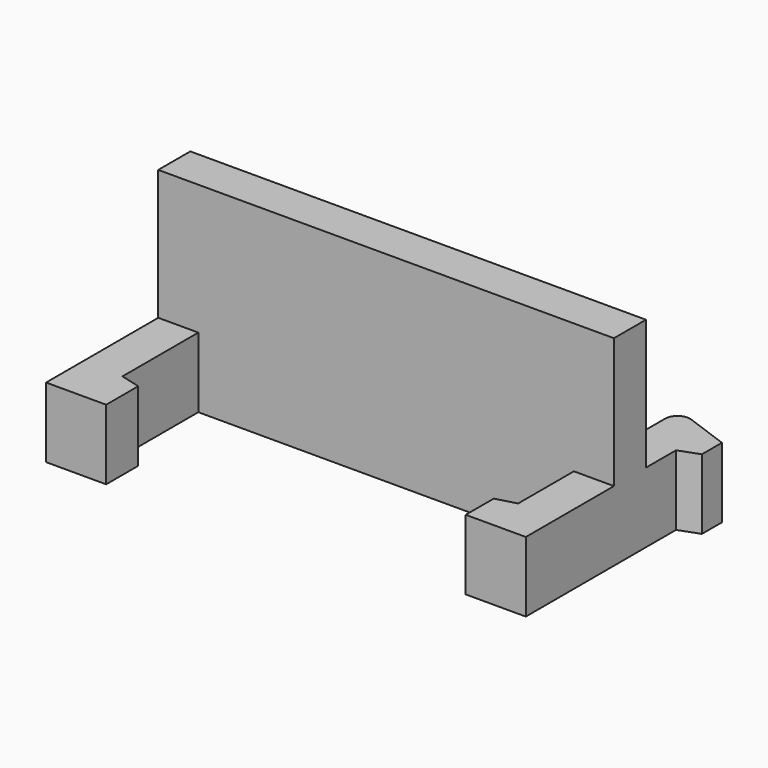
from build123d import *

# Parameters (mm, degrees)
F0_W     = 18.2
F0_H     = 8
F1_DEPTH = 1.6
F3_DEPTH = 2.8


with BuildPart() as f1:
    # F0 (on Front) → F1 (new body)
    with BuildSketch(Plane.XZ):
        Rectangle(F0_W, F0_H)
    extrude(amount=F1_DEPTH)

    # F2 (on face) → F3 (join)
    with BuildSketch(Plane(origin=(0, 0, -4), x_dir=(1, 0, 0), z_dir=(0, 0, -1))):
        Polygon((-9.1, 7.2), (-9.1, 1.6), (-7.5, 1.6), (-7.5, 5.385641), (-6.7, 5.6), (-6.7, 7.2), align=None)
        Polygon((7.5, 4.385641), (7.5, 1.6), (9.1, 1.6), (9.1, 6), (6.7, 6), (6.7, 4.6), align=None)
        with BuildLine():
            Line((-7.5, 0), (-9.1, 0))
            Line((-9.1, 0), (-9.1, -1.5))
            Line((-9.1, -1.5), (-9.9, -1.791176))
            Line((-9.9, -1.791176), (-9.9, -2.791176))
            Line((-9.9, -2.791176), (-8.17101, -3.420477))
            ThreePointArc((-8.17101, -3.420477), (-7.713212, -3.360207), (-7.5, -2.950631))
            Line((-7.5, -2.950631), (-7.5, 0))
        make_face()
        with BuildLine():
            Line((9.1, 0), (7.5, 0))
            Line((7.5, 0), (7.5, -2.950631))
            ThreePointArc((7.5, -2.950631), (7.713212, -3.360207), (8.17101, -3.420477))
            Line((8.17101, -3.420477), (9.9, -2.791176))
            Line((9.9, -2.791176), (9.9, -1.791176))
            Line((9.9, -1.791176), (9.1, -1.5))
            Line((9.1, -1.5), (9.1, 0))
        make_face()
    extrude(amount=-F3_DEPTH)


solid = f1.part
